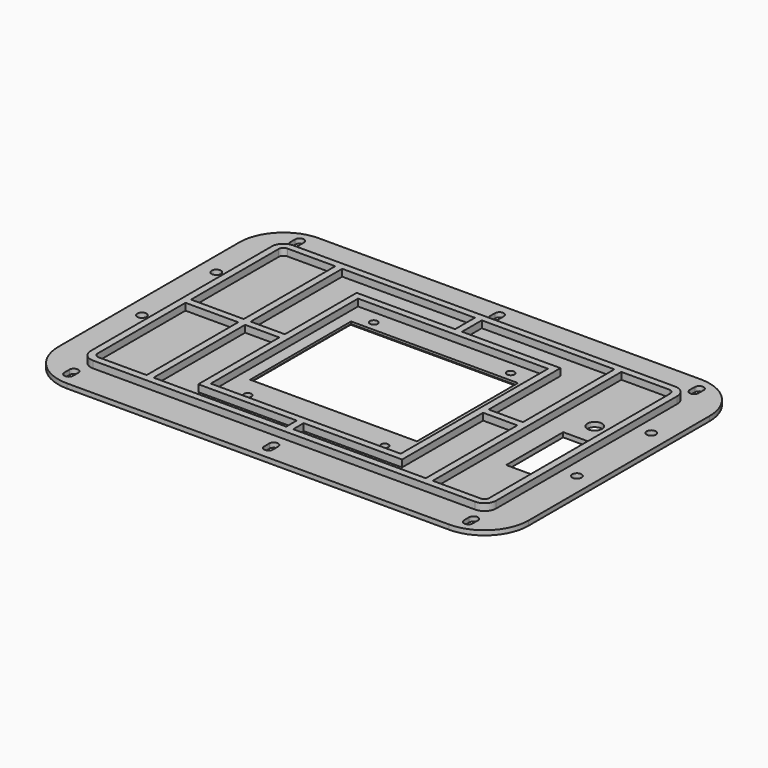
from build123d import *

# Parameters (mm, degrees)
F0_R     = 2
F0_W     = 11.2
F0_H     = 30.8
F0_R_2   = 3.175
F1_DEPTH = 2
F2_W     = 72.0786
F2_H     = 54.5526
F2_R     = 1.651
F3_DEPTH = 2.001
F4_SIZE  = 1
F5_W     = 82.0786
F5_H     = 79.5526
F6_DEPTH = 3


with BuildPart() as f1:
    # F0 (on Top) → F1 (new body)
    with BuildSketch(Plane.XY):
        with BuildLine():
            Line((-82.55, -67.945), (82.55, -67.945))
            ThreePointArc((82.55, -67.945), (96.020384, -62.365384), (101.6, -48.895))
            Line((101.6, -48.895), (101.6, 48.895))
            ThreePointArc((101.6, 48.895), (96.020384, 62.365384), (82.55, 67.945))
            Line((82.55, 67.945), (-82.55, 67.945))
            ThreePointArc((-82.55, 67.945), (-96.020384, 62.365384), (-101.6, 48.895))
            Line((-101.6, 48.895), (-101.6, -48.895))
            ThreePointArc((-101.6, -48.895), (-96.020384, -62.365384), (-82.55, -67.945))
        make_face()
        with BuildLine():
            Line((-84.46, -59.585), (-84.46, -62.335))
            ThreePointArc((-84.46, -62.335), (-86.36, -64.235), (-88.26, -62.335))
            Line((-88.26, -62.335), (-88.26, -59.585))
            ThreePointArc((-88.26, -59.585), (-86.36, -57.685), (-84.46, -59.585))
        make_face(mode=Mode.SUBTRACT)
        with BuildLine():
            Line((1.9, -59.585), (1.9, -62.335))
            ThreePointArc((1.9, -62.335), (0, -64.235), (-1.9, -62.335))
            Line((-1.9, -62.335), (-1.9, -59.585))
            ThreePointArc((-1.9, -59.585), (0, -57.685), (1.9, -59.585))
        make_face(mode=Mode.SUBTRACT)
        with Locations((-94, -13.3)):
            Circle(F0_R, mode=Mode.SUBTRACT)
        with BuildLine():
            Line((88.26, -59.585), (88.26, -62.335))
            ThreePointArc((88.26, -62.335), (86.36, -64.235), (84.46, -62.335))
            Line((84.46, -62.335), (84.46, -59.585))
            ThreePointArc((84.46, -59.585), (86.36, -57.685), (88.26, -59.585))
        make_face(mode=Mode.SUBTRACT)
        with Locations((76, -6.5875)):
            Rectangle(F0_W, F0_H, mode=Mode.SUBTRACT)
        with Locations((94, -13.3)):
            Circle(F0_R, mode=Mode.SUBTRACT)
        with Locations((-94, 26.9)):
            Circle(F0_R, mode=Mode.SUBTRACT)
        with BuildLine():
            Line((-84.46, 62.335), (-84.46, 59.585))
            ThreePointArc((-84.46, 59.585), (-86.36, 57.685), (-88.26, 59.585))
            Line((-88.26, 59.585), (-88.26, 62.335))
            ThreePointArc((-88.26, 62.335), (-86.36, 64.235), (-84.46, 62.335))
        make_face(mode=Mode.SUBTRACT)
        with BuildLine():
            Line((1.9, 62.335), (1.9, 59.585))
            ThreePointArc((1.9, 59.585), (0, 57.685), (-1.9, 59.585))
            Line((-1.9, 59.585), (-1.9, 62.335))
            ThreePointArc((-1.9, 62.335), (0, 64.235), (1.9, 62.335))
        make_face(mode=Mode.SUBTRACT)
        with Locations((76, 18.8125)):
            Circle(F0_R_2, mode=Mode.SUBTRACT)
        with Locations((94, 26.9)):
            Circle(F0_R, mode=Mode.SUBTRACT)
        with BuildLine():
            Line((88.26, 62.335), (88.26, 59.585))
            ThreePointArc((88.26, 59.585), (86.36, 57.685), (84.46, 59.585))
            Line((84.46, 59.585), (84.46, 62.335))
            ThreePointArc((84.46, 62.335), (86.36, 64.235), (88.26, 62.335))
        make_face(mode=Mode.SUBTRACT)
    extrude(amount=F1_DEPTH)

    # F2 (on face) → F3 (cut, through all)
    with BuildSketch(Plane.XY.offset(2)):
        Rectangle(F2_W, F2_H)
        with Locations((-29.5656, 31.4579)):
            Circle(F2_R)
        with Locations((29.5656, 31.4579)):
            Circle(F2_R)
        with Locations((29.5656, -36.6141)):
            Circle(F2_R)
        with Locations((-29.5656, -36.6141)):
            Circle(F2_R)
    extrude(amount=-F3_DEPTH, mode=Mode.SUBTRACT)

    # F4
    f4_edges = [f1.edges().sort_by_distance(p)[0] for p in [
        (0, 27.2763, 0),
        (36.0393, 0, 0),
        (-36.0393, 0, 0),
        (0, -27.2763, 0),
    ]]
    chamfer(f4_edges, length=F4_SIZE)

    # F5 (on face) → F6 (join)
    with BuildSketch(Plane.XY.offset(2)):
        with BuildLine():
            Line((87.6, -48.895), (87.6, 48.895))
            ThreePointArc((87.6, 48.895), (86.120889, 52.465889), (82.55, 53.945))
            Line((82.55, 53.945), (-82.55, 53.945))
            ThreePointArc((-82.55, 53.945), (-86.120889, 52.465889), (-87.6, 48.895))
            Line((-87.6, 48.895), (-87.6, -48.895))
            ThreePointArc((-87.6, -48.895), (-86.120889, -52.465889), (-82.55, -53.945))
            Line((-82.55, -53.945), (82.55, -53.945))
            ThreePointArc((82.55, -53.945), (86.120889, -52.465889), (87.6, -48.895))
        make_face()
        with BuildLine():
            ThreePointArc((-82.55, -50.945), (-83.999569, -50.344569), (-84.6, -48.895))
            Line((-84.6, -48.895), (-84.6, -1.5))
            Line((-84.6, -1.5), (-61.81965, -1.5))
            Line((-61.81965, -1.5), (-61.81965, -50.945))
            Line((-61.81965, -50.945), (-82.55, -50.945))
        make_face(mode=Mode.SUBTRACT)
        Polygon((-44.0393, -1.5), (-44.0393, -45.2763), (-1.5, -45.2763), (-1.5, -50.945), (-58.81965, -50.945), (-58.81965, -1.5), align=None, mode=Mode.SUBTRACT)
        Polygon((58.81965, -1.5), (58.81965, -50.945), (1.5, -50.945), (1.5, -45.2763), (44.0393, -45.2763), (44.0393, -1.5), align=None, mode=Mode.SUBTRACT)
        with Locations((0, -2.5)):
            Rectangle(F5_W, F5_H, mode=Mode.SUBTRACT)
        with BuildLine():
            ThreePointArc((-84.6, 48.895), (-83.999569, 50.344569), (-82.55, 50.945))
            Line((-82.55, 50.945), (-61.81965, 50.945))
            Line((-61.81965, 50.945), (-61.81965, 1.5))
            Line((-61.81965, 1.5), (-84.6, 1.5))
            Line((-84.6, 1.5), (-84.6, 48.895))
        make_face(mode=Mode.SUBTRACT)
        Polygon((-58.81965, 1.5), (-58.81965, 50.945), (-1.5, 50.945), (-1.5, 40.2763), (-44.0393, 40.2763), (-44.0393, 1.5), align=None, mode=Mode.SUBTRACT)
        Polygon((1.5, 50.945), (58.81965, 50.945), (58.81965, 1.5), (44.0393, 1.5), (44.0393, 40.2763), (1.5, 40.2763), align=None, mode=Mode.SUBTRACT)
        with BuildLine():
            ThreePointArc((82.55, 50.945), (83.999569, 50.344569), (84.6, 48.895))
            Line((84.6, 48.895), (84.6, -48.895))
            ThreePointArc((84.6, -48.895), (83.999569, -50.344569), (82.55, -50.945))
            Line((82.55, -50.945), (61.81965, -50.945))
            Line((61.81965, -50.945), (61.81965, 50.945))
            Line((61.81965, 50.945), (82.55, 50.945))
        make_face(mode=Mode.SUBTRACT)
    extrude(amount=F6_DEPTH)


solid = f1.part
